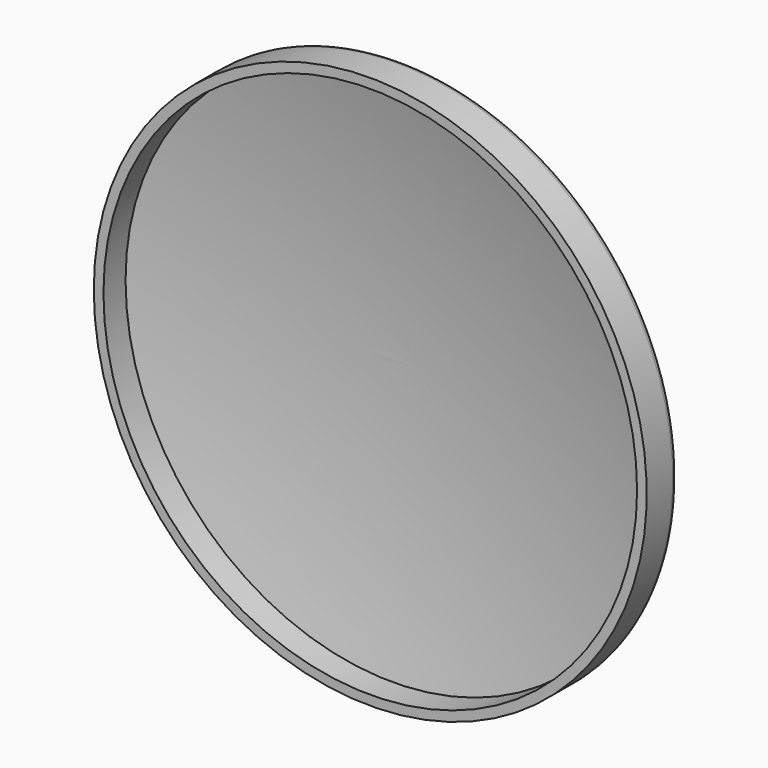
from build123d import *

# Parameters (mm, degrees)
F2_R = 2


with BuildPart() as f1:
    # F0 (on Top) → F1 (revolve)
    with BuildSketch(Plane.XY):
        with BuildLine():
            Line((-96.5, -20), (-96.5, -10))
            ThreePointArc((-96.5, -10), (-48.508376, -2.506676), (0, 0))
            Line((0, 0), (0, 4))
            ThreePointArc((0, 4), (-50.282995, 1.328858), (-100, -6.654501))
            Line((-100, -6.654501), (-100, -20))
            Line((-100, -20), (-96.5, -20))
        make_face()
    revolve(axis=Axis((0, -5.064436, 0), (0, -1, 0)))

    # F2
    f2_edges = [f1.edges().sort_by_distance(p)[0] for p in [
        (100, -6.654501, 0),
    ]]
    fillet(f2_edges, radius=F2_R)


solid = f1.part
